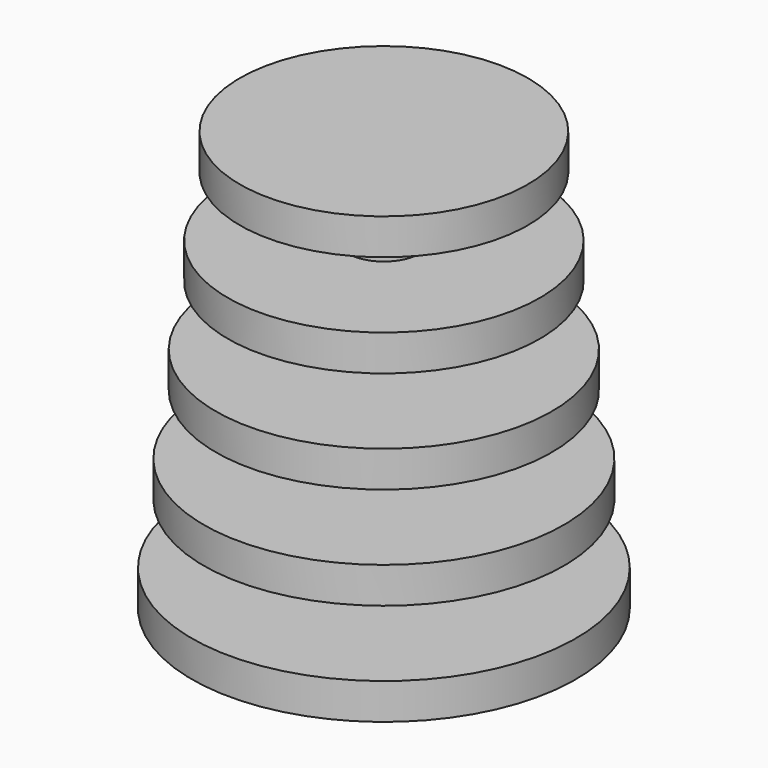
from build123d import *


with BuildPart() as f1:
    # F0 (on Right) → F1 (revolve)
    with BuildSketch(Plane.YZ):
        Polygon((0, 0), (16, 0), (16, 3), (3, 3), (3, 8), (15, 8), (15, 11), (3, 11), (3, 16), (14, 16), (14, 19), (3, 19), (3, 24), (13, 24), (13, 27), (3, 27), (3, 32), (12, 32), (12, 35), (0, 35), align=None)
    revolve(axis=Axis((0, 0, 17.5), (0, 0, -1)))


solid = f1.part
